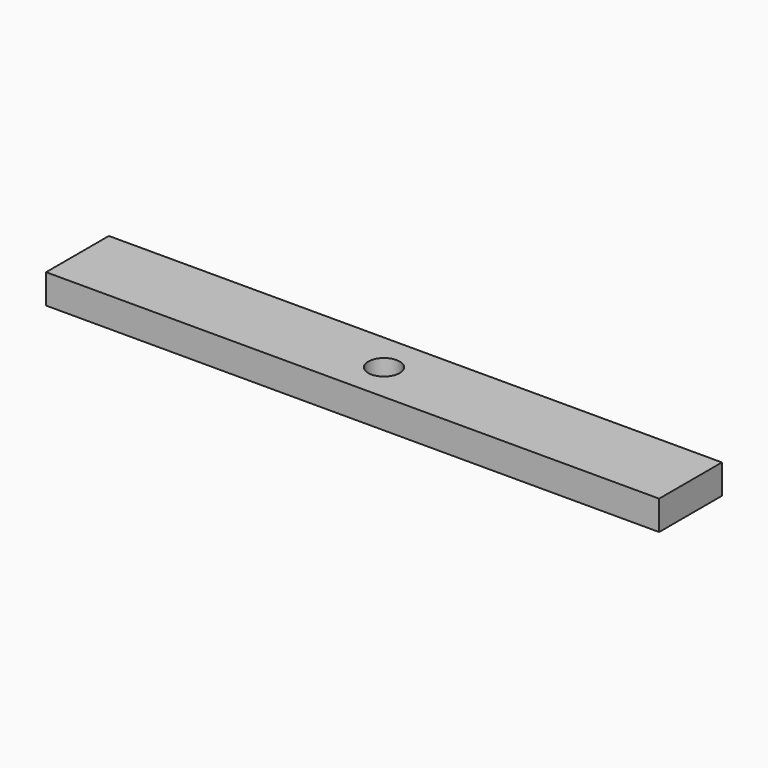
from build123d import *

# Parameters (mm, degrees)
SKETCH_W     = 62.5
SKETCH_H     = 8
PAD_DEPTH    = 3
SKETCH001_R  = 1.6
POCKET_DEPTH = 3.001


with BuildPart() as part:
    # Sketch → Pad (new body)
    with BuildSketch(Plane.XY):
        with Locations((31.25, 4)):
            Rectangle(SKETCH_W, SKETCH_H)
    extrude(amount=PAD_DEPTH)

    # Sketch001 (on Face6 of Pad) → Pocket (cut, through all)
    with BuildSketch(Plane.XY.offset(3)):
        with Locations((31.25, 4)):
            Circle(SKETCH001_R)
    extrude(amount=-POCKET_DEPTH, mode=Mode.SUBTRACT)


solid = part.part
